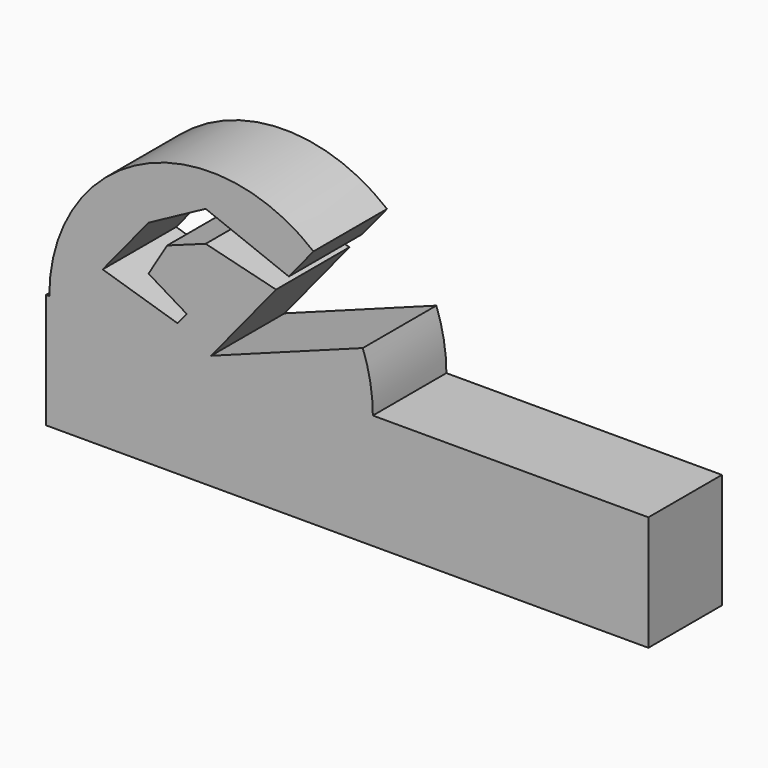
from build123d import *

# Parameters (mm, degrees)
F1_DEPTH = 2
F2_W     = 8.5403220728
F2_H     = 4.6931710094
F2_W_2   = 0.6901277229
F2_H_2   = 1.2939884327
F2_W_3   = 6.8944285065
F2_H_3   = 1.7584205465
F3_DEPTH = 25


with BuildPart() as f1:
    # F0 (on Front) → F1 (new body)
    with BuildSketch(Plane.XZ):
        Polygon((-9.930648845, 2.5), (-10, 2.5), (-10, -2.5), (10, -2.5), (10, 2.5), (-2.8898654856, 2.5), (-6.4102571653, 2.5), align=None)
        with BuildLine():
            ThreePointArc((-4.181011657, 5.22463246), (-7.9177949325, 5.6812713589), (-9.930648845, 2.5))
            Line((-9.930648845, 2.5), (-6.4102571653, 2.5))
            Line((-6.4102571653, 2.5), (-4.9966118794, 4.2277880872))
            Line((-4.9966118794, 4.2277880872), (-6.5272068605, 4.60704742))
            Line((-6.5272068605, 4.60704742), (-7.3648947571, 4.3025127212))
            Line((-7.3648947571, 4.3025127212), (-7.770688273, 3.6313927267))
            Line((-7.770688273, 3.6313927267), (-6.9399328939, 3.1290754826))
            Line((-6.9399328939, 3.1290754826), (-7.1393824182, 2.8853039257))
            Line((-7.1393824182, 2.8853039257), (-8.7687884615, 3.38714761))
            Line((-8.7687884615, 3.38714761), (-7.770688273, 4.60704742))
            Line((-7.770688273, 4.60704742), (-6.5272068605, 5.2766148001))
            Line((-6.5272068605, 5.2766148001), (-4.7181948396, 4.5680754631))
            Line((-4.7181948396, 4.5680754631), (-4.181011657, 5.22463246))
        make_face()
        with BuildLine():
            Line((-3.1086160646, 3.721606983), (-6.4102571653, 2.5))
            Line((-6.4102571653, 2.5), (-2.8898654856, 2.5))
            ThreePointArc((-2.8898654856, 2.5), (-2.9449846335, 3.1205190241), (-3.1086160646, 3.721606983))
        make_face()
    extrude(amount=F1_DEPTH)

    # F2 (on face) → F3 (cut)
    with BuildSketch(Plane.XZ.offset(2)):
        Polygon((3.1055714935, 0), (-13.5437427089, 0), (-13.5437427089, -4.5372783206), (-12.422285974, -4.5372783206), (-12.422285974, -0.7415794535), (3.1055714935, -0.7415794535), align=None)
        with Locations((7.3757325299, 2.3465855047)):
            Rectangle(F2_W, F2_H)
        Polygon((11.6458935663, 0), (3.1055714935, 0), (3.1055714935, -0.7415794535), (10.9557658434, -0.7415794535), (10.9557658434, -3.2432898879), (11.6458935663, -3.2432898879), align=None)
        Polygon((3.1055714935, -3.2432898879), (3.1055714935, -0.7415794535), (-12.422285974, -0.7415794535), (-12.422285974, -4.5372783206), (10.9557658434, -4.5372783206), (10.9557658434, -3.2432898879), align=None)
        with Locations((11.3008297049, -3.8902841043)):
            Rectangle(F2_W_2, F2_H_2)
        with Locations((6.5527857468, -1.6207897267)):
            Rectangle(F2_W_3, F2_H_3)
    extrude(amount=-F3_DEPTH, mode=Mode.SUBTRACT)


solid = f1.part
